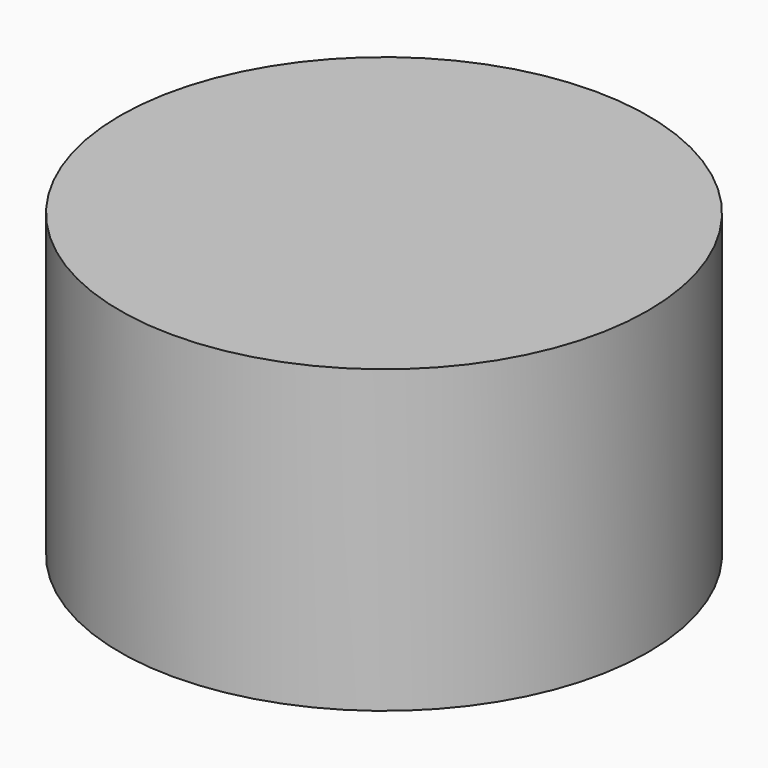
from build123d import *

# Parameters (mm, degrees)
F0_W = 39.223094
F0_H = 44.688604


with BuildPart() as f1:
    # F0 (on Front) → F1 (revolve)
    with BuildSketch(Plane.XZ):
        Rectangle(F0_W, F0_H)
    revolve(axis=Axis((-19.611547, 0, 0), (0, 0, -1)))


solid = f1.part
